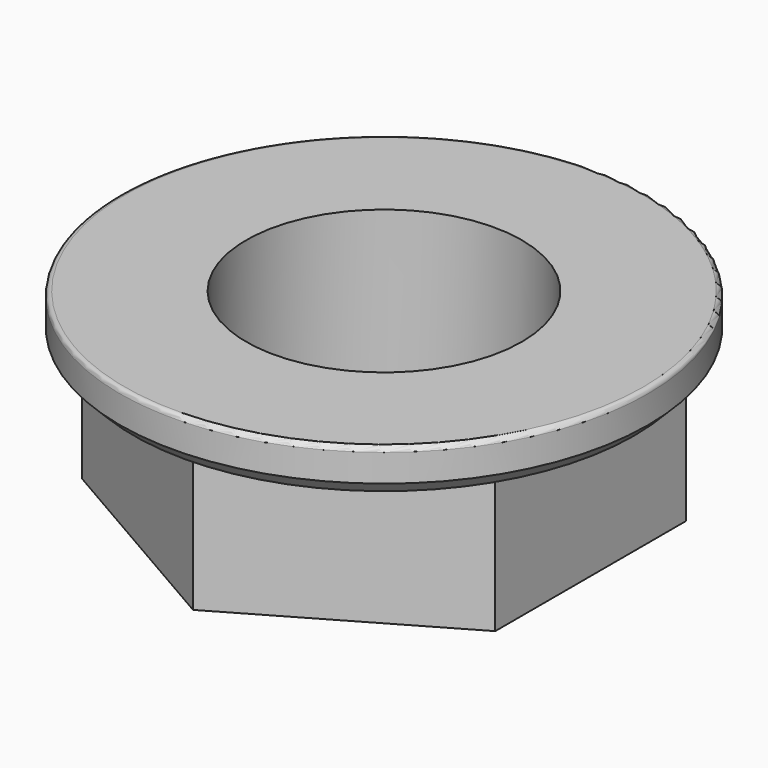
from build123d import *

# Parameters (mm, degrees)
F0_R     = 3
F1_DEPTH = 3
F2_R     = 5.75
F2_R_2   = 3
F3_DEPTH = 1
F4_SIZE  = 0.3
F5_R     = 0.1


with BuildPart() as f1:
    # F0 (on Top) → F1 (new body)
    with BuildSketch(Plane.XY):
        Polygon((4.5, -2.598076), (4.5, 2.598076), (0, 5.196152), (-4.5, 2.598076), (-4.5, -2.598076), (0, -5.196152), align=None)
        Circle(F0_R, mode=Mode.SUBTRACT)
    extrude(amount=F1_DEPTH)

    # F2 (on face) → F3 (join)
    with BuildSketch(Plane.XY.offset(3)):
        Circle(F2_R)
        Circle(F2_R_2, mode=Mode.SUBTRACT)
    extrude(amount=F3_DEPTH)

    # F4
    f4_edges = [f1.edges().sort_by_distance(p)[0] for p in [
        (-5.75, 0, 3),
    ]]
    chamfer(f4_edges, length=F4_SIZE)

    # F5
    f5_edges = [f1.edges().sort_by_distance(p)[0] for p in [
        (-5.75, 0, 4),
    ]]
    fillet(f5_edges, radius=F5_R)


solid = f1.part
